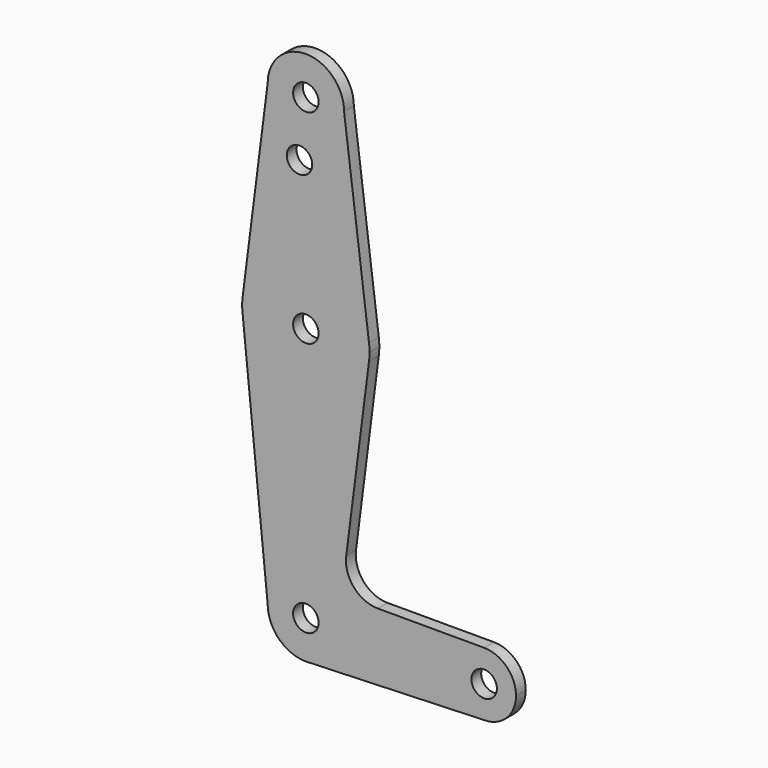
from build123d import *

# Parameters (mm, degrees)
F0_R     = 3.175
F1_DEPTH = 3.048


with BuildPart() as f1:
    # F0 (on Front) → F1 (new body)
    with BuildSketch(Plane.XZ):
        with BuildLine():
            ThreePointArc((0.67949, -9.500732), (6.97129, -6.490511), (9.525, 0))
            ThreePointArc((9.525, 0), (0, 9.525), (-9.525, 0))
            ThreePointArc((-9.525, 0), (-6.735192, -6.735192), (0, -9.525))
            Line((0, -9.525), (0.67949, -9.500732))
        make_face()
        Circle(F0_R, mode=Mode.SUBTRACT)
        with BuildLine():
            ThreePointArc((-9.525, 0), (0, 9.525), (9.525, 0))
            ThreePointArc((9.525, 0), (6.97129, -6.490511), (0.67949, -9.500732))
            Line((0.67949, -9.500732), (44.45, -7.9375))
            ThreePointArc((44.45, -7.9375), (36.5125, 0), (44.45, 7.9375))
            Line((44.45, 7.9375), (17.946122, 7.9375))
            ThreePointArc((17.946122, 7.9375), (11.979481, 10.633666), (10.059795, 16.893451))
            Line((10.059795, 16.893451), (15.747457, 61.491711))
            ThreePointArc((15.747457, 61.491711), (0, 47.625), (-15.747457, 61.491711))
            Line((-15.747457, 61.491711), (-9.525, 0))
        make_face()
        with BuildLine():
            ThreePointArc((0, -9.525), (0.339962, -9.518931), (0.67949, -9.500732))
            Line((0.67949, -9.500732), (0, -9.525))
        make_face()
        with BuildLine():
            ThreePointArc((-15.747457, 65.508289), (-15.875, 63.5), (-15.747457, 61.491711))
            ThreePointArc((-15.747457, 61.491711), (0, 47.625), (15.747457, 61.491711))
            ThreePointArc((15.747457, 61.491711), (15.843082, 62.493832), (15.875, 63.5))
            ThreePointArc((15.875, 63.5), (15.843082, 64.506168), (15.747457, 65.508289))
            ThreePointArc((15.747457, 65.508289), (0, 79.375), (-15.747457, 65.508289))
        make_face()
        with Locations((0, 63.5)):
            Circle(F0_R, mode=Mode.SUBTRACT)
        with BuildLine():
            ThreePointArc((44.45, 7.9375), (36.5125, 0), (44.45, -7.9375))
            ThreePointArc((44.45, -7.9375), (50.06266, -5.61266), (52.3875, 0))
            ThreePointArc((52.3875, 0), (50.06266, 5.61266), (44.45, 7.9375))
        make_face()
        with Locations((44.45, 0)):
            Circle(F0_R, mode=Mode.SUBTRACT)
        with BuildLine():
            Line((-9.525, 114.3), (-15.747457, 65.508289))
            ThreePointArc((-15.747457, 65.508289), (0, 79.375), (15.747457, 65.508289))
            Line((15.747457, 65.508289), (9.525, 114.3))
            ThreePointArc((9.525, 114.3), (0, 104.775), (-9.525, 114.3))
        make_face()
        with Locations((-1.5875, 100.0252)):
            Circle(F0_R, mode=Mode.SUBTRACT)
        with BuildLine():
            ThreePointArc((9.525, 114.3), (0, 123.825), (-9.525, 114.3))
            ThreePointArc((-9.525, 114.3), (0, 104.775), (9.525, 114.3))
        make_face()
        with Locations((0, 114.3)):
            Circle(F0_R, mode=Mode.SUBTRACT)
    extrude(amount=-F1_DEPTH)


solid = f1.part
